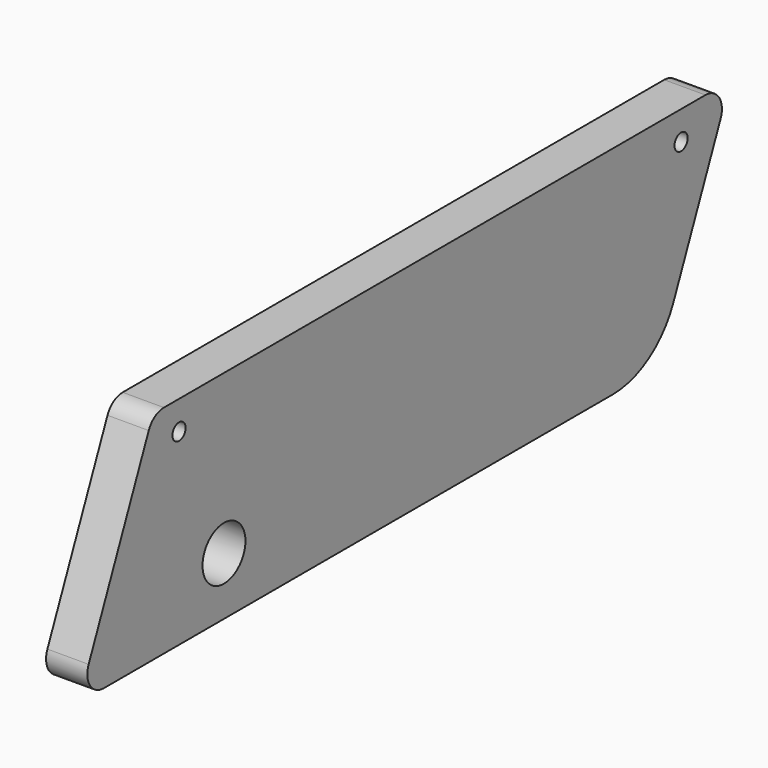
from build123d import *

# Parameters (mm, degrees)
F0_R           = 8.255
F1_DEPTH       = 12.7
F3_D           = 5.08
F3_CBORE_D     = 8.255
F3_CBORE_DEPTH = 2.54
F4_R           = 6.35
F5_R           = 25.4


with BuildPart() as f1:
    # F0 (on Right) → F1 (new body)
    with BuildSketch(Plane.YZ):
        Polygon((-27.305, 48.895), (-55.88, -17.78), (166.37, -17.78), (194.945, 48.895), align=None)
        Circle(F0_R, mode=Mode.SUBTRACT)
    extrude(amount=F1_DEPTH)

    # F3 (through all)
    with Locations(Plane(origin=(0, 0, 0), x_dir=(0, -1, 0), z_dir=(-1, 0, 0))):
        with Locations((-175.936093, 40.005), (17.297812, 40.005)):
            CounterBoreHole(F3_D / 2, F3_CBORE_D / 2, F3_CBORE_DEPTH)

    # F4
    f4_edges = [f1.edges().sort_by_distance(p)[0] for p in [
        (6.35, 194.945, 48.895),
        (6.35, -27.305, 48.895),
        (6.35, -55.88, -17.78),
    ]]
    fillet(f4_edges, radius=F4_R)

    # F5
    f5_edges = [f1.edges().sort_by_distance(p)[0] for p in [
        (6.35, 166.37, -17.78),
    ]]
    fillet(f5_edges, radius=F5_R)


solid = f1.part
